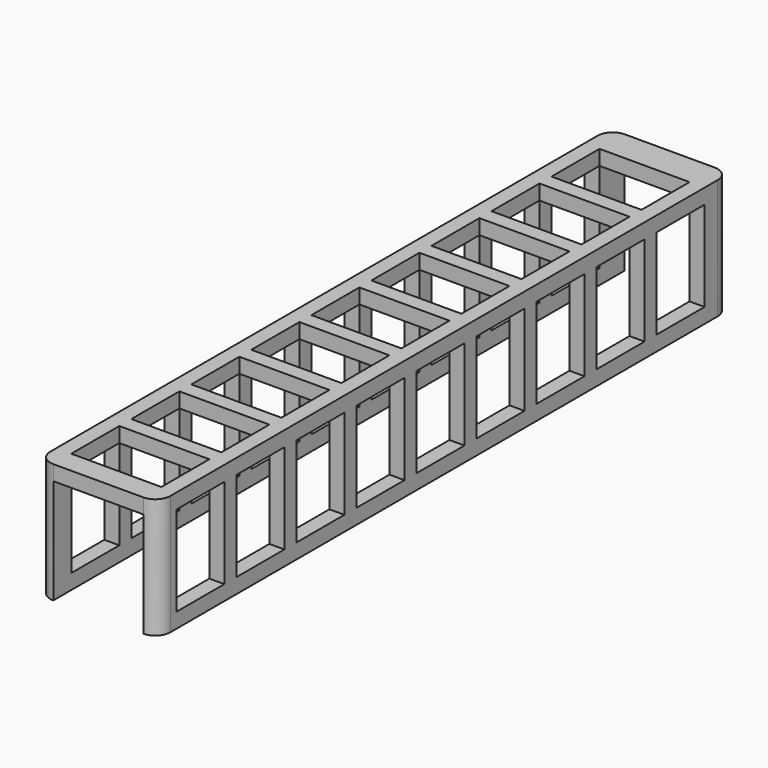
from build123d import *

# Parameters (mm, degrees)
F0_W     = 40
F0_H     = 238
F1_DEPTH = 40
F2_R     = 5
F3_W     = 30
F3_H     = 35
F4_DEPTH = 238.001
F5_W     = 20
F5_H     = 30
F6_DEPTH = 40.001
F7_W     = 30
F7_H     = 20
F8_DEPTH = 40.001


with BuildPart() as f1:
    # F0 (on Top) → F1 (new body)
    with BuildSketch(Plane.XY):
        with Locations((2.510834, 0)):
            Rectangle(F0_W, F0_H)
    extrude(amount=F1_DEPTH)

    # F2
    f2_edges = [f1.edges().sort_by_distance(p)[0] for p in [
        (22.510834, -119, 20),
        (-17.489166, -119, 20),
        (22.510834, 119, 20),
        (-17.489166, 119, 20),
    ]]
    fillet(f2_edges, radius=F2_R)

    # F3 (on face) → F4 (cut, through all)
    with BuildSketch(Plane.XZ.offset(119)):
        with Locations((2.510834, 17.5)):
            Rectangle(F3_W, F3_H)
    extrude(amount=-F4_DEPTH, mode=Mode.SUBTRACT)

    # F5 (on face) → F6 (cut, through all)
    with BuildSketch(Plane.YZ.offset(22.510834)):
        with Locations((-101.5, 20)):
            Rectangle(F5_W, F5_H)
        with Locations((-76.5, 20)):
            Rectangle(F5_W, F5_H)
        with Locations((-51.5, 20)):
            Rectangle(F5_W, F5_H)
        with Locations((-26.5, 20)):
            Rectangle(F5_W, F5_H)
        with Locations((-1.5, 20)):
            Rectangle(F5_W, F5_H)
        with Locations((23.5, 20)):
            Rectangle(F5_W, F5_H)
        with Locations((48.5, 20)):
            Rectangle(F5_W, F5_H)
        with Locations((73.5, 20)):
            Rectangle(F5_W, F5_H)
        with Locations((98.5, 20)):
            Rectangle(F5_W, F5_H)
    extrude(amount=-F6_DEPTH, mode=Mode.SUBTRACT)

    # F7 (on face) → F8 (cut, through all)
    with BuildSketch(Plane.XY.offset(40)):
        with Locations((2.510834, -101.5)):
            Rectangle(F7_W, F7_H)
        with Locations((2.510834, -76.5)):
            Rectangle(F7_W, F7_H)
        with Locations((2.510834, -51.5)):
            Rectangle(F7_W, F7_H)
        with Locations((2.510834, -26.5)):
            Rectangle(F7_W, F7_H)
        with Locations((2.510834, -1.5)):
            Rectangle(F7_W, F7_H)
        with Locations((2.510834, 23.5)):
            Rectangle(F7_W, F7_H)
        with Locations((2.510834, 48.5)):
            Rectangle(F7_W, F7_H)
        with Locations((2.510834, 73.5)):
            Rectangle(F7_W, F7_H)
        with Locations((2.510834, 98.5)):
            Rectangle(F7_W, F7_H)
    extrude(amount=-F8_DEPTH, mode=Mode.SUBTRACT)


solid = f1.part
